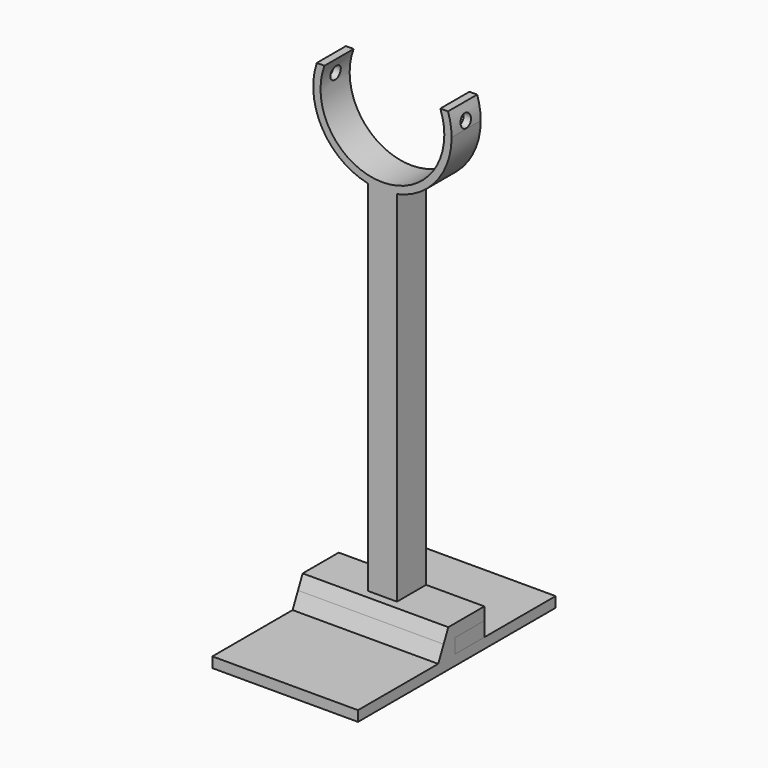
from build123d import *

# Parameters (mm, degrees)
F0_W     = 4
F0_H     = 43
F0_W_2   = 8
F0_H_2   = 2
F1_DEPTH = 5
F3_DEPTH = 20
F5_R     = 0.8942590534
F6_DEPTH = 12.5


with BuildPart() as f1:
    # F0 (on Front) → F1 (new body)
    with BuildSketch(Plane.XZ):
        with BuildLine():
            ThreePointArc((2, 44.7409739319), (0, 44.5280617424), (-2, 44.7409739319))
            Line((-2, 44.7409739319), (-2, 36.7409739319))
            Line((-2, 36.7409739319), (2, 36.7409739319))
            Line((2, 36.7409739319), (2, 44.7409739319))
        make_face()
        with BuildLine():
            ThreePointArc((7.9529868603, 57.0280617424), (8.3621285661, 55.5527931429), (8.5, 54.0280617424))
            ThreePointArc((8.5, 54.0280617424), (-1.5247314005, 45.6659331763), (-7.9529868603, 57.0280617424))
            Line((-7.9529868603, 57.0280617424), (-9.0138781887, 57.0280617424))
            ThreePointArc((-9.0138781887, 57.0280617424), (-8.2504248318, 49.318444975), (-2, 44.7409739319))
            ThreePointArc((-2, 44.7409739319), (0, 44.5280617424), (2, 44.7409739319))
            ThreePointArc((2, 44.7409739319), (7.3908727495, 48.0593935492), (9.5, 54.0280617424))
            ThreePointArc((9.5, 54.0280617424), (9.3776820908, 55.5476270104), (9.0138781887, 57.0280617424))
            Line((9.0138781887, 57.0280617424), (7.9529868603, 57.0280617424))
        make_face()
        with Locations((0, 15.2409739319)):
            Rectangle(F0_W, F0_H)
        with Locations((6, -7.2590260681)):
            Rectangle(F0_W_2, F0_H_2)
        with Locations((0, -7.2590260681)):
            Rectangle(F0_W, F0_H_2)
        with Locations((-6, -7.2590260681)):
            Rectangle(F0_W_2, F0_H_2)
    extrude(amount=F1_DEPTH)


with BuildPart() as f3:
    # F2 (on face) → F3 (new body)
    with BuildSketch(Plane.YZ.offset(10)):
        Polygon((12.2371204197, -9.6794357523), (12.2371204197, -8.2590260681), (0, -8.2590260681), (-5, -8.2590260681), (-7.9226046801, -8.2590260681), (-21.6926392168, -8.2590260681), (-21.6926392168, -9.6794357523), align=None)
        Polygon((-5, -8.2590260681), (-5, -6.2590260681), (-6.9932822321, -6.2590260681), (-7.9226046801, -8.2590260681), align=None)
        Polygon((-5, -6.2590260681), (0, -6.2590260681), (0, -4.5280563645), (-6.1889677308, -4.5280563645), (-6.9932822321, -6.2590260681), align=None)
    extrude(amount=-F3_DEPTH)

    # F4: cut F1
    add(f1.part, mode=Mode.SUBTRACT)


with BuildPart() as f1_1:
    add(f1.part)

    # F5 (on Right) → F6 (cut, symmetric)
    with BuildSketch(Plane.YZ):
        with Locations((-2.5, 55.0280617424)):
            Circle(F5_R)
    extrude(amount=F6_DEPTH, both=True, mode=Mode.SUBTRACT)


solid = Compound([f3.part, f1_1.part])
